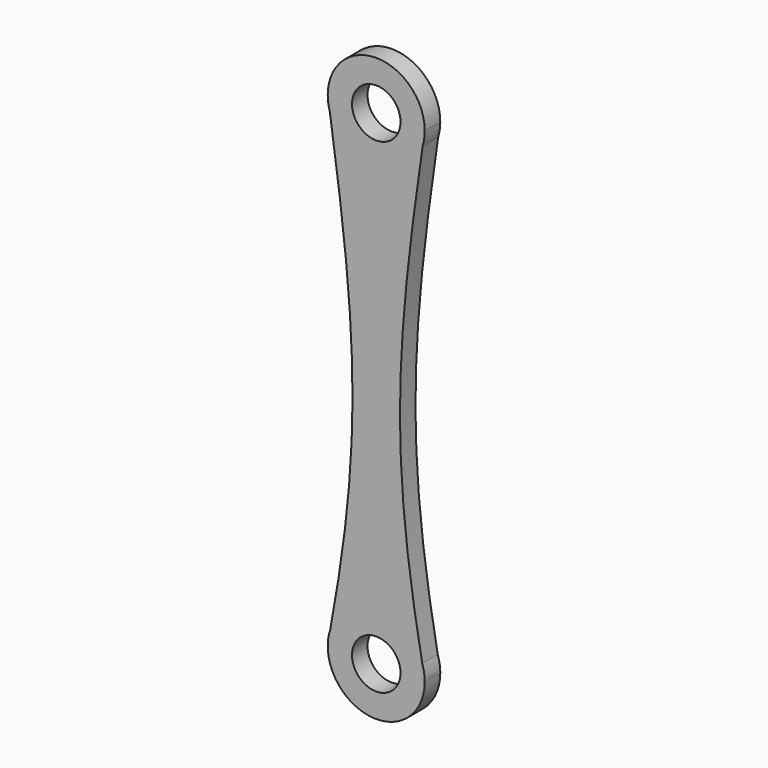
from build123d import *

# Parameters (mm, degrees)
F0_R     = 2.5
F1_DEPTH = 2


with BuildPart() as f1:
    # F0 (on Front) → F1 (new body)
    with BuildSketch(Plane.XZ):
        with BuildLine():
            add(Edge.make_bspline(
                [(5, 0), (4.926064, -0.492134), (4.853598, -0.978139), (4.782619, -1.458273)],
                knots=[0, 0, 0, 0, 1.163643, 1.163643, 1.163643, 1.163643], degree=3))
            ThreePointArc((5, 0), (0, 5), (-5, 0))
            add(Edge.make_bspline(
                [(-5, 0), (-4.926064, -0.492134), (-4.853598, -0.978139), (-4.782619, -1.458273)],
                knots=[0, 0, 0, 0, 1.163643, 1.163643, 1.163643, 1.163643], degree=3))
            ThreePointArc((-4.782619, -1.458273), (0, -5), (4.782619, -1.458273))
        make_face()
        Circle(F0_R, mode=Mode.SUBTRACT)
        with BuildLine():
            ThreePointArc((4.782619, -1.458273), (4.945356, -0.737193), (5, 0))
            add(Edge.make_bspline(
                [(5, 0), (4.926064, -0.492134), (4.853598, -0.978139), (4.782619, -1.458273)],
                knots=[0, 0, 0, 0, 1.163643, 1.163643, 1.163643, 1.163643], degree=3))
        make_face()
        with BuildLine():
            add(Edge.make_bspline(
                [(-5, 0), (-4.926064, -0.492134), (-4.853598, -0.978139), (-4.782619, -1.458273)],
                knots=[0, 0, 0, 0, 1.163643, 1.163643, 1.163643, 1.163643], degree=3))
            ThreePointArc((-5, 0), (-4.945356, -0.737193), (-4.782619, -1.458273))
        make_face()
        with BuildLine():
            add(Edge.make_bspline(
                [(4.782619, -1.458273), (1.891675, -21.013817), (1.467811, -30.83033), (4.740109, -48.408974)],
                knots=[1.163643, 1.163643, 1.163643, 1.163643, 48.558084, 48.558084, 48.558084, 48.558084], degree=3))
            ThreePointArc((4.782619, -1.458273), (0, -5), (-4.782619, -1.458273))
            add(Edge.make_bspline(
                [(-4.782619, -1.458273), (-1.891675, -21.013817), (-1.467811, -30.83033), (-4.740109, -48.408974)],
                knots=[1.163643, 1.163643, 1.163643, 1.163643, 48.558084, 48.558084, 48.558084, 48.558084], degree=3))
            ThreePointArc((-4.740109, -48.408974), (0, -45), (4.740109, -48.408974))
        make_face()
        with BuildLine():
            add(Edge.make_bspline(
                [(4.740109, -48.408974), (4.82229, -48.850442), (4.906801, -49.296806), (4.993663, -49.748342)],
                knots=[48.558084, 48.558084, 48.558084, 48.558084, 49.748343, 49.748343, 49.748343, 49.748343], degree=3))
            ThreePointArc((4.740109, -48.408974), (0, -45), (-4.740109, -48.408974))
            add(Edge.make_bspline(
                [(-4.740109, -48.408974), (-4.82229, -48.850442), (-4.906801, -49.296806), (-4.993663, -49.748342)],
                knots=[48.558084, 48.558084, 48.558084, 48.558084, 49.748343, 49.748343, 49.748343, 49.748343], degree=3))
            ThreePointArc((-4.993663, -49.748342), (-0.125869, -54.998415), (5, -50))
            ThreePointArc((5, -50), (4.998415, -49.874131), (4.993663, -49.748342))
        make_face()
        with Locations((0, -50)):
            Circle(F0_R, mode=Mode.SUBTRACT)
        with BuildLine():
            ThreePointArc((4.993663, -49.748342), (4.912744, -49.069977), (4.740109, -48.408974))
            add(Edge.make_bspline(
                [(4.740109, -48.408974), (4.82229, -48.850442), (4.906801, -49.296806), (4.993663, -49.748342)],
                knots=[48.558084, 48.558084, 48.558084, 48.558084, 49.748343, 49.748343, 49.748343, 49.748343], degree=3))
        make_face()
        with BuildLine():
            add(Edge.make_bspline(
                [(-4.740109, -48.408974), (-4.82229, -48.850442), (-4.906801, -49.296806), (-4.993663, -49.748342)],
                knots=[48.558084, 48.558084, 48.558084, 48.558084, 49.748343, 49.748343, 49.748343, 49.748343], degree=3))
            ThreePointArc((-4.740109, -48.408974), (-4.912744, -49.069977), (-4.993663, -49.748342))
        make_face()
    extrude(amount=F1_DEPTH)


solid = f1.part
